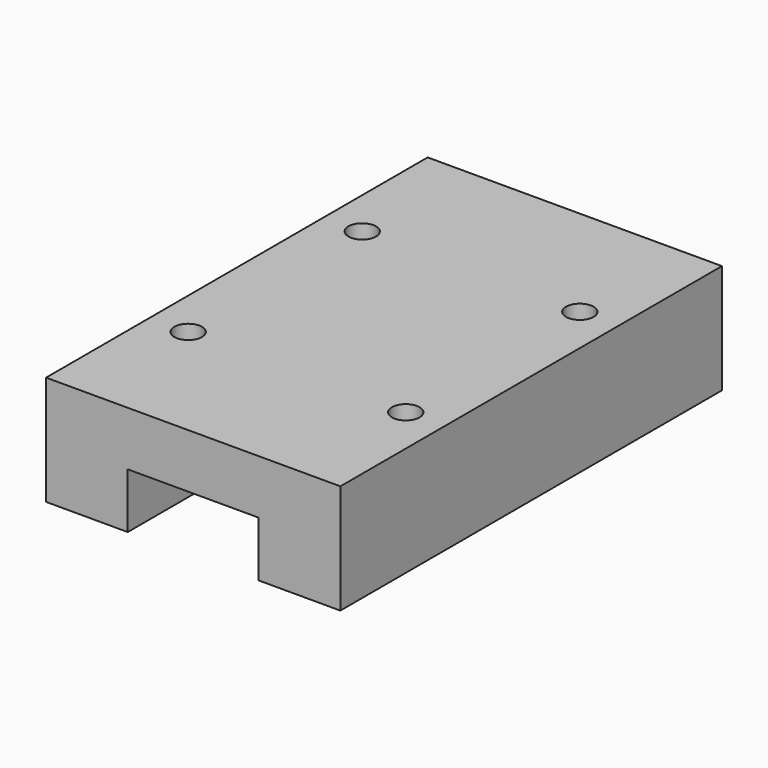
from build123d import *

# Parameters (mm, degrees)
F1_DEPTH = 43.8404
F2_R     = 1.27
F3_DEPTH = 10.0584


with BuildPart() as f1:
    # F0 (on Front) → F1 (new body)
    with BuildSketch(Plane.XZ):
        Polygon((6.0198, 5.08), (6.0198, 0), (13.5255, 0), (13.5255, 10.0584), (0, 10.0584), (-13.5255, 10.0584), (-13.5255, 0), (-6.0198, 0), (-6.0198, 5.08), (0, 5.08), align=None)
    extrude(amount=F1_DEPTH)

    # F2 (on face) → F3 (cut, through all)
    with BuildSketch(Plane.XY.offset(10.0584)):
        with Locations((10, -11.9202)):
            Circle(F2_R)
        with Locations((10, -31.9202)):
            Circle(F2_R)
        with Locations((-10, -31.9202)):
            Circle(F2_R)
        with Locations((-10, -11.9202)):
            Circle(F2_R)
    extrude(amount=-F3_DEPTH, mode=Mode.SUBTRACT)


solid = f1.part
